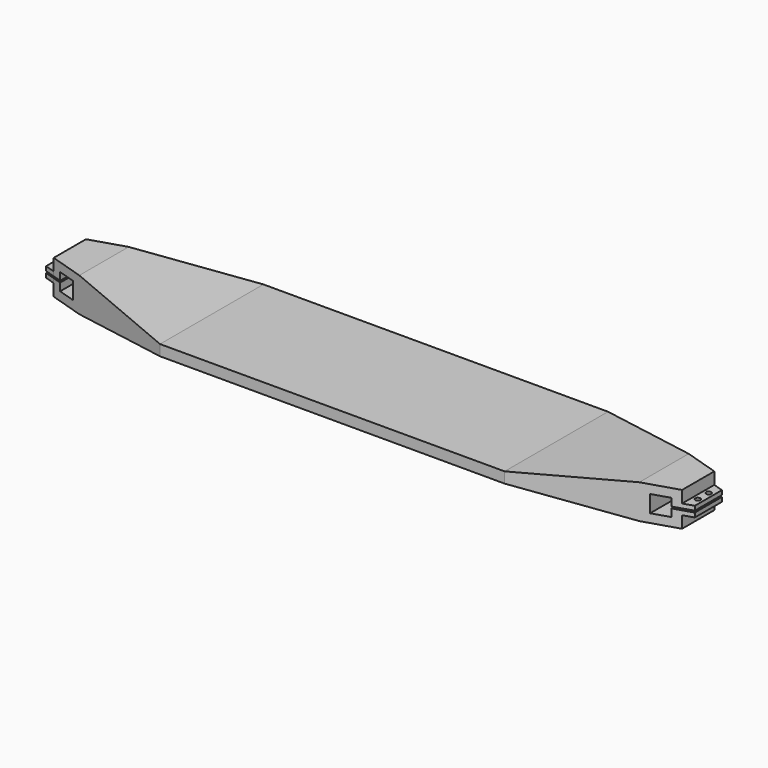
from build123d import *

# Parameters (mm, degrees)
F0_W     = 6
F0_H     = 2.54
F0_W_2   = 63.5
F0_H_2   = 6.35
F0_W_3   = 101.6
F1_DEPTH = 76.2
F2_R     = 4.445
F2_R_2   = 1.5875
F3_DEPTH = 25.4
F4_R     = 1.5
F5_DEPTH = 13.121
F7_DEPTH = 20.161
F8_R     = 4.445
F8_R_2   = 1.5875
F9_DEPTH = 6.35


with BuildPart() as f1:
    # F0 (on Front) → F1 (new body)
    with BuildSketch(Plane.XZ):
        Polygon((-180.18, 3.675), (-180.18, 8.175), (-170.18, 8.175), (-170.18, -1.825), (-180.18, -1.825), (-180.18, 2.675), (-185.26, 2.675), (-185.26, 0.135), (-185.26, -6.905), (-165.1, -6.905), (-165.1, 0), (-165.1, 6.35), (-165.1, 13.255), (-185.26, 13.255), (-185.26, 6.215), (-185.26, 3.675), align=None)
        with Locations((-188.26, 4.945)):
            Rectangle(F0_W, F0_H)
        with Locations((-188.26, 1.405)):
            Rectangle(F0_W, F0_H)
        Polygon((-101.6, 6.35), (-165.1, 13.255), (-165.1, 6.35), align=None)
        with Locations((-133.35, 3.175)):
            Rectangle(F0_W_2, F0_H_2)
        with Locations((-50.8, 3.175)):
            Rectangle(F0_W_3, F0_H_2)
        Polygon((-101.6, 0), (-165.1, 0), (-165.1, -6.905), align=None)
        with Locations((50.8, 3.175)):
            Rectangle(F0_W_3, F0_H_2)
        with Locations((133.35, 3.175)):
            Rectangle(F0_W_2, F0_H_2)
        Polygon((165.1, 13.255), (101.6, 6.35), (165.1, 6.35), align=None)
        Polygon((165.1, 0), (101.6, 0), (165.1, -6.905), align=None)
        Polygon((165.1, 13.255), (165.1, 6.35), (165.1, 0), (165.1, -6.905), (185.26, -6.905), (185.26, 0.135), (185.26, 2.675), (180.18, 2.675), (180.18, -1.825), (170.18, -1.825), (170.18, 8.175), (180.18, 8.175), (180.18, 3.675), (185.26, 3.675), (185.26, 6.215), (185.26, 13.255), align=None)
        with Locations((188.26, 4.945)):
            Rectangle(F0_W, F0_H)
        with Locations((188.26, 1.405)):
            Rectangle(F0_W, F0_H)
    extrude(amount=F1_DEPTH)

    # F2 (on face) → F3 (cut)
    with BuildSketch(Plane.XY.offset(6.35)):
        with Locations((-38.1, -9.525)):
            Circle(F2_R)
        with Locations((38.1, -9.525)):
            Circle(F2_R)
        with Locations((38.1, -66.675)):
            Circle(F2_R)
        with Locations((-38.1, -66.675)):
            Circle(F2_R)
        with Locations((-22.9969, -15.1031)):
            Circle(F2_R_2)
        with Locations((22.9969, -61.0969)):
            Circle(F2_R_2)
        with Locations((22.9969, -15.1031)):
            Circle(F2_R_2)
        with Locations((-22.9969, -61.0969)):
            Circle(F2_R_2)
    extrude(amount=-F3_DEPTH, mode=Mode.SUBTRACT)

    # F4 (on face) → F5 (cut, through all)
    with BuildSketch(Plane.XY.offset(6.215)):
        with Locations((-188.26, -34.1)):
            Circle(F4_R)
        with Locations((-188.26, -42.1)):
            Circle(F4_R)
        with Locations((188.26, -42.1)):
            Circle(F4_R)
        with Locations((188.26, -34.1)):
            Circle(F4_R)
    extrude(amount=-F5_DEPTH, mode=Mode.SUBTRACT)

    # F6 (on face) → F7 (cut, through all)
    with BuildSketch(Plane.XY.offset(13.255)):
        Polygon((-165.1, -19.9012937765), (-101.6, 0), (-165.1, 0), align=None)
        Polygon((-185.26, -26.2195627928), (-165.1, -19.9012937765), (-165.1, 0), (-185.26, 0), align=None)
        Polygon((-191.26, -28.1), (-185.26, -26.2195627928), (-185.26, 0), (-191.26, 0), align=None)
        Polygon((-185.26, -76.2), (-185.26, -49.9804372072), (-191.26, -48.1), (-191.26, -76.2), align=None)
        Polygon((-165.1, -76.2), (-165.1, -56.2987062235), (-185.26, -49.9804372072), (-185.26, -76.2), align=None)
        Polygon((-101.6, -76.2), (-165.1, -56.2987062235), (-165.1, -76.2), align=None)
        Polygon((191.26, -48.1), (101.6, -76.2), (191.26, -76.2), align=None)
        Polygon((191.26, 0), (101.6, 0), (191.26, -28.1), align=None)
    extrude(amount=-F7_DEPTH, mode=Mode.SUBTRACT)

    # F8 (on face) → F9 (join, through all)
    with BuildSketch(Plane(origin=(0, 0, 0), x_dir=(1, 0, 0), z_dir=(0, 0, -1))):
        with Locations((-38.1, 66.675)):
            Circle(F8_R)
        with Locations((-38.1, 9.525)):
            Circle(F8_R)
        with Locations((-22.9969, 15.1031)):
            Circle(F8_R_2)
        with Locations((38.1, 9.525)):
            Circle(F8_R)
        with Locations((38.1, 66.675)):
            Circle(F8_R)
        with Locations((22.9969, 61.0969)):
            Circle(F8_R_2)
        with Locations((-22.9969, 61.0969)):
            Circle(F8_R_2)
        with Locations((22.9969, 15.1031)):
            Circle(F8_R_2)
    extrude(amount=-F9_DEPTH)


solid = f1.part
